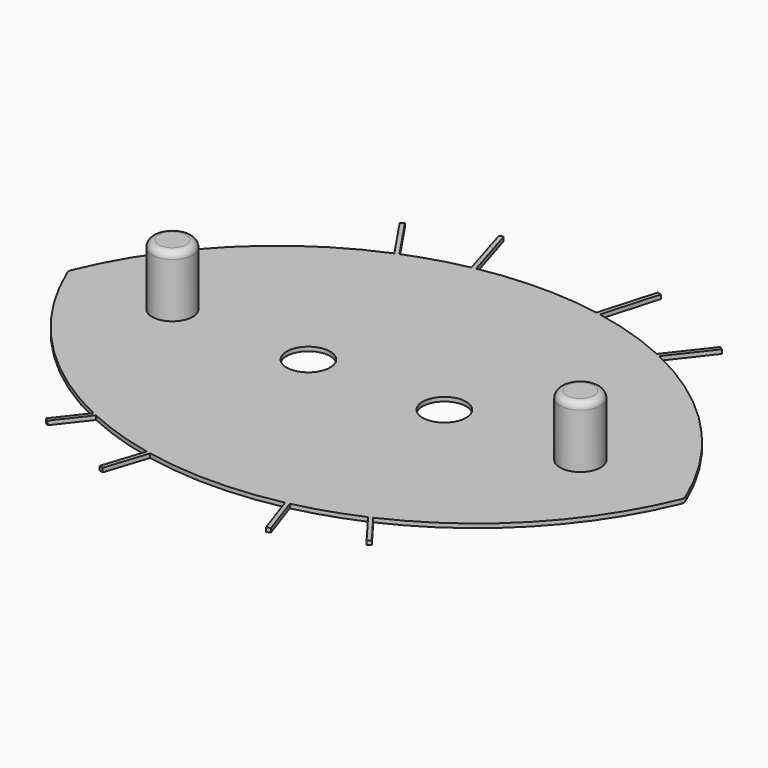
from build123d import *

# Parameters (mm, degrees)
F3_DEPTH = 0.3
F4_R     = 1.6
F5_DEPTH = 0.301
F6_R     = 1.5
F7_DEPTH = 4.5
F8_R     = 0.5


with BuildPart() as f3:
    # F2 (on Top) → F3 (new body)
    with BuildSketch(Plane.XY):
        with BuildLine():
            ThreePointArc((22.5701665084, -0.1915041783), (22.6082940696, 0), (22.5701665084, 0.1915041783))
            ThreePointArc((22.5701665084, 0.1915041783), (17.7008675448, 7.675751982), (10.4677268379, 12.9107986006))
            Line((10.4677268379, 12.9107986006), (12.747458202, 15.8287216837))
            Line((12.747458202, 15.8287216837), (12.4964258145, 15.9946956536))
            Line((12.4964258145, 15.9946956536), (10.1887041195, 13.0409465807))
            ThreePointArc((10.1887041195, 13.0409465807), (7.4319060142, 14.1089547165), (4.5662963881, 14.8361813951))
            Line((4.5662963881, 14.8361813951), (5.7490812099, 18.9610422665))
            Line((5.7490812099, 18.9610422665), (5.4607027011, 19.0437334733))
            Line((5.4607027011, 19.0437334733), (4.2698358713, 14.8906872903))
            ThreePointArc((4.2698358713, 14.8906872903), (-0.1360819994, 15.2662877079), (-4.5375427655, 14.8416336361))
            Line((-4.5375427655, 14.8416336361), (-5.7925011179, 18.9464174492))
            Line((-5.7925011179, 18.9464174492), (-6.0793925447, 18.8587059378))
            Line((-6.0793925447, 18.8587059378), (-4.8335659928, 14.7837908983))
            ThreePointArc((-4.8335659928, 14.7837908983), (-7.0006877188, 14.2422664411), (-9.1092972105, 13.5050884949))
            Line((-9.1092972105, 13.5050884949), (-11.2713448253, 16.7104559006))
            Line((-11.2713448253, 16.7104559006), (-11.520056097, 16.5426980296))
            Line((-11.520056097, 16.5426980296), (-9.3929049937, 13.3890668296))
            ThreePointArc((-9.3929049937, 13.3890668296), (-17.2902689379, 8.0970055334), (-22.5701665084, 0.1915041783))
            ThreePointArc((-22.5701665084, 0.1915041783), (-22.6082940696, 0), (-22.5701665084, -0.1915041783))
            ThreePointArc((-22.5701665084, -0.1915041783), (-17.7008675448, -7.675751982), (-10.4677268379, -12.9107986006))
            Line((-10.4677268379, -12.9107986006), (-12.1931284822, -15.1192119975))
            Line((-12.1931284822, -15.1192119975), (-11.9567252562, -15.30391044))
            Line((-11.9567252562, -15.30391044), (-10.1887041195, -13.0409465807))
            ThreePointArc((-10.1887041195, -13.0409465807), (-7.69123576, -14.0245530137), (-5.1009446547, -14.7282729944))
            Line((-5.1009446547, -14.7282729944), (-6.1007225638, -17.8052730061))
            Line((-6.1007225638, -17.8052730061), (-5.8154056089, -17.8979781044))
            Line((-5.8154056089, -17.8979781044), (-4.8053870424, -14.7894605903))
            ThreePointArc((-4.8053870424, -14.7894605903), (0.1368174743, -15.2662836005), (5.0733720825, -14.7341423885))
            Line((5.0733720825, -14.7341423885), (6.1334205771, -17.8127467574))
            Line((6.1334205771, -17.8127467574), (6.4170761498, -17.7150763111))
            Line((6.4170761498, -17.7150763111), (5.3684350935, -14.6696015485))
            ThreePointArc((5.3684350935, -14.6696015485), (7.6806898276, -14.0280478509), (9.9188621728, -13.1627746827))
            Line((9.9188621728, -13.1627746827), (11.6638032097, -15.4783896498))
            Line((11.6638032097, -15.4783896498), (11.9033938627, -15.2978451429))
            Line((11.9033938627, -15.2978451429), (10.1991018341, -13.0361732318))
            ThreePointArc((10.1991018341, -13.0361732318), (17.5983697455, -7.7828218235), (22.5701665084, -0.1915041783))
        make_face()
        with BuildLine():
            ThreePointArc((22.5701665084, -0.1915041783), (22.6082940696, 0), (22.5701665084, 0.1915041783))
            ThreePointArc((22.5701665084, 0.1915041783), (17.7008675448, 7.675751982), (10.4677268379, 12.9107986006))
            Line((10.4677268379, 12.9107986006), (12.747458202, 15.8287216837))
            Line((12.747458202, 15.8287216837), (12.4964258145, 15.9946956536))
            Line((12.4964258145, 15.9946956536), (10.1887041195, 13.0409465807))
            ThreePointArc((10.1887041195, 13.0409465807), (7.4319060142, 14.1089547165), (4.5662963881, 14.8361813951))
            Line((4.5662963881, 14.8361813951), (5.7490812099, 18.9610422665))
            Line((5.7490812099, 18.9610422665), (5.4607027011, 19.0437334733))
            Line((5.4607027011, 19.0437334733), (4.2698358713, 14.8906872903))
            ThreePointArc((4.2698358713, 14.8906872903), (-0.1360819994, 15.2662877079), (-4.5375427655, 14.8416336361))
            Line((-4.5375427655, 14.8416336361), (-5.7925011179, 18.9464174492))
            Line((-5.7925011179, 18.9464174492), (-6.0793925447, 18.8587059378))
            Line((-6.0793925447, 18.8587059378), (-4.8335659928, 14.7837908983))
            ThreePointArc((-4.8335659928, 14.7837908983), (-7.0006877188, 14.2422664411), (-9.1092972105, 13.5050884949))
            Line((-9.1092972105, 13.5050884949), (-11.2713448253, 16.7104559006))
            Line((-11.2713448253, 16.7104559006), (-11.520056097, 16.5426980296))
            Line((-11.520056097, 16.5426980296), (-9.3929049937, 13.3890668296))
            ThreePointArc((-9.3929049937, 13.3890668296), (-17.2902689379, 8.0970055334), (-22.5701665084, 0.1915041783))
            ThreePointArc((-22.5701665084, 0.1915041783), (-22.6082940696, 0), (-22.5701665084, -0.1915041783))
            ThreePointArc((-22.5701665084, -0.1915041783), (-17.7008675448, -7.675751982), (-10.4677268379, -12.9107986006))
            Line((-10.4677268379, -12.9107986006), (-12.1931284822, -15.1192119975))
            Line((-12.1931284822, -15.1192119975), (-11.9567252562, -15.30391044))
            Line((-11.9567252562, -15.30391044), (-10.1887041195, -13.0409465807))
            ThreePointArc((-10.1887041195, -13.0409465807), (-7.69123576, -14.0245530137), (-5.1009446547, -14.7282729944))
            Line((-5.1009446547, -14.7282729944), (-6.1007225638, -17.8052730061))
            Line((-6.1007225638, -17.8052730061), (-5.8154056089, -17.8979781044))
            Line((-5.8154056089, -17.8979781044), (-4.8053870424, -14.7894605903))
            ThreePointArc((-4.8053870424, -14.7894605903), (0.1368174743, -15.2662836005), (5.0733720825, -14.7341423885))
            Line((5.0733720825, -14.7341423885), (6.1334205771, -17.8127467574))
            Line((6.1334205771, -17.8127467574), (6.4170761498, -17.7150763111))
            Line((6.4170761498, -17.7150763111), (5.3684350935, -14.6696015485))
            ThreePointArc((5.3684350935, -14.6696015485), (7.6806898276, -14.0280478509), (9.9188621728, -13.1627746827))
            Line((9.9188621728, -13.1627746827), (11.6638032097, -15.4783896498))
            Line((11.6638032097, -15.4783896498), (11.9033938627, -15.2978451429))
            Line((11.9033938627, -15.2978451429), (10.1991018341, -13.0361732318))
            ThreePointArc((10.1991018341, -13.0361732318), (17.5983697455, -7.7828218235), (22.5701665084, -0.1915041783))
        make_face()
    extrude(amount=F3_DEPTH)

    # F4 (on face) → F5 (cut, through all)
    with BuildSketch(Plane.XY.offset(0.3)):
        with Locations((5, 0)):
            Circle(F4_R)
        with Locations((-5, 0)):
            Circle(F4_R)
    extrude(amount=-F5_DEPTH, mode=Mode.SUBTRACT)

    # F6 (on face) → F7 (join)
    with BuildSketch(Plane.XY.offset(0.3)):
        with Locations((-15, 0)):
            Circle(F6_R)
        with Locations((15, 0)):
            Circle(F6_R)
    extrude(amount=F7_DEPTH)

    # F8
    f8_edges = [f3.edges().sort_by_distance(p)[0] for p in [
        (-16.5, 0, 4.8),
        (13.5, 0, 4.8),
    ]]
    fillet(f8_edges, radius=F8_R)


solid = f3.part
